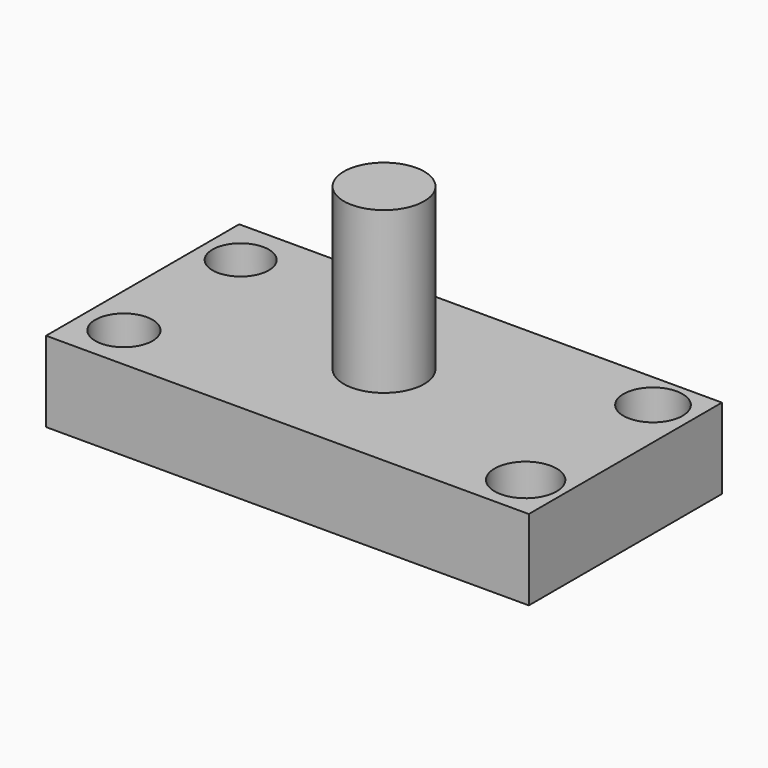
from build123d import *

# Parameters (mm, degrees)
F0_W     = 152.4
F0_H     = 76.2
F1_DEPTH = 25.4
F2_R     = 8.89
F2_R_2   = 9.33931
F2_R_3   = 9.03456
F2_R_4   = 9.786488
F3_DEPTH = 50.8
F4_W     = 12.7
F4_H     = 50.8


with BuildPart() as f1:
    # F0 (on Top) → F1 (new body)
    with BuildSketch(Plane.XY):
        Rectangle(F0_W, F0_H)
    extrude(amount=-F1_DEPTH)

    # F2 (on Top) → F3 (cut)
    with BuildSketch(Plane.XY):
        with Locations((-64.024046, 23.457246)):
            Circle(F2_R)
        with Locations((63.710019, 26.510652)):
            Circle(F2_R_2)
        with Locations((-63.006245, -23.870517)):
            Circle(F2_R_3)
        with Locations((64.218916, -24.379414)):
            Circle(F2_R_4)
    extrude(amount=-F3_DEPTH, mode=Mode.SUBTRACT)

    # F4 (on Front) → F5 (revolve)
    with BuildSketch(Plane.XZ):
        with Locations((6.35, 25.4)):
            Rectangle(F4_W, F4_H)
    revolve(axis=Axis((0, 0, 25.4), (0, 0, 1)))


solid = f1.part
